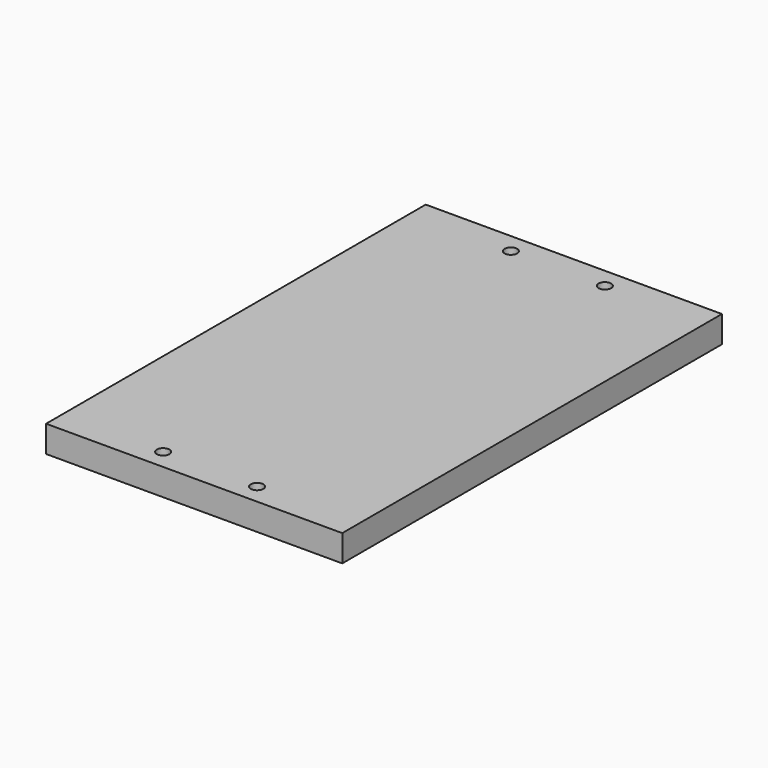
from build123d import *

# Parameters (mm, degrees)
F0_W     = 70.5
F0_H     = 112.9538
F1_DEPTH = 6.35
F2_R     = 1.5
F3_DEPTH = 6.35


with BuildPart() as f1:
    # F0 (on Top) → F1 (new body)
    with BuildSketch(Plane.XY):
        Rectangle(F0_W, F0_H)
    extrude(amount=F1_DEPTH)

    # F2 (on face) → F3 (cut, through all)
    with BuildSketch(Plane.XY.offset(6.35)):
        with BuildLine():
            ThreePointArc((12.68, -51.7369), (11.18, -50.2369), (9.68, -51.7369))
            ThreePointArc((9.68, -51.7369), (11.18, -53.2369), (12.68, -51.7369))
        make_face()
        with Locations((-11.18, -51.7369)):
            Circle(F2_R)
        with BuildLine():
            ThreePointArc((12.68, 51.7369), (11.18, 53.2369), (9.68, 51.7369))
            ThreePointArc((9.68, 51.7369), (11.18, 50.2369), (12.68, 51.7369))
        make_face()
        with Locations((-11.18, 51.7369)):
            Circle(F2_R)
    extrude(amount=-F3_DEPTH, mode=Mode.SUBTRACT)


solid = f1.part
